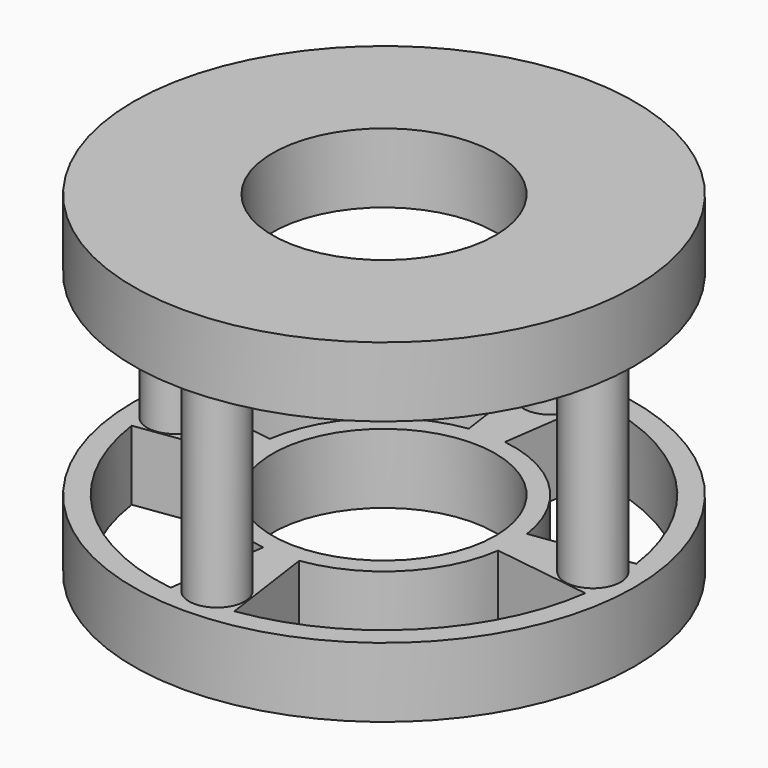
from build123d import *

# Parameters (mm, degrees)
SKETCH004_R           = 18
SKETCH004_R_2         = 8
PAD005_DEPTH          = 5
POCKET003_DEPTH       = 3
POLARPATTERN002_COUNT = 4
SKETCH005_R           = 2
PAD006_DEPTH          = 14
POLARPATTERN_COUNT    = 4
SKETCH006_R           = 18
SKETCH006_R_2         = 8
PAD007_DEPTH          = 5
POCKET001_DEPTH       = 5
POLARPATTERN001_COUNT = 4
SKETCH017_R           = 0.8
HOLE_DEPTH            = 9
HOLE_TIPS_R           = 0.8


with BuildPart() as part:
    # Sketch004 → Pad005 (new body)
    with BuildSketch(Plane.XY.offset(3)):
        Circle(SKETCH004_R)
        Circle(SKETCH004_R_2, mode=Mode.SUBTRACT)
    extrude(amount=-PAD005_DEPTH)

    # Sketch016 (on Face4 of Pad005) → Pocket003 (cut)
    with BuildSketch(Plane(origin=(0, 0, -2), x_dir=(1, 0, 0), z_dir=(0, 0, -1))):
        with BuildLine():
            ThreePointArc((-2.274320715, 16.0355366217), (-11.366542794, 11.537446614), (-15.9998121466, 2.5133604465))
            Line((-15.9998121466, 2.5133604465), (-9.3613070154, 1.4705384391))
            ThreePointArc((-1.3306790273, 9.382208997), (-6.6504341316, 6.7504280011), (-9.3613070154, 1.4705384391))
            Line((-2.274320715, 16.0355366217), (-1.3306790273, 9.382208997))
        make_face()
    pocket003 = extrude(amount=-POCKET003_DEPTH, mode=Mode.SUBTRACT)

    # PolarPattern002: Pocket003 ×4 about axis
    polarpattern002_axis = Axis((0, 0, -2), (0, 0, -1))
    for i in range(1, POLARPATTERN002_COUNT):
        add(pocket003.rotate(polarpattern002_axis, i * 360 / POLARPATTERN002_COUNT), mode=Mode.SUBTRACT)

    # Sketch005 (on Face3 of Pad005) → Pad006 (join)
    with BuildSketch(Plane.XY.offset(-2)):
        with Locations((0, 15)):
            Circle(SKETCH005_R)
    pad006 = extrude(amount=-PAD006_DEPTH)

    # PolarPattern: Pad006 ×4 about axis
    polarpattern_axis = Axis((0, 0, 0), (0, 0, 1))
    for i in range(1, POLARPATTERN_COUNT):
        add(pad006.rotate(polarpattern_axis, i * 360 / POLARPATTERN_COUNT))

    # Sketch006 → Pad007 (join)
    with BuildSketch(Plane.XY.offset(-16)):
        Circle(SKETCH006_R)
        Circle(SKETCH006_R_2, mode=Mode.SUBTRACT)
    extrude(amount=-PAD007_DEPTH)

    # Sketch011 (on Face3 of Pad007) → Pocket001 (cut)
    with BuildSketch(Plane(origin=(0, 0, -21), x_dir=(1, 0, 0), z_dir=(0, 0, -1))):
        with BuildLine():
            ThreePointArc((9.2353888952, 1.2979492641), (6.5945841544, 6.5945841544), (1.2979492641, 9.2353888952))
            Line((2.2896869549, 16.2919692324), (1.2979492641, 9.2353888952))
            ThreePointArc((16.2919692324, 2.2896869549), (11.6333771498, 11.6333771498), (2.2896869549, 16.2919692324))
            Line((16.2919692324, 2.2896869549), (9.2353888952, 1.2979492641))
        make_face()
    pocket001 = extrude(amount=-POCKET001_DEPTH, mode=Mode.SUBTRACT)

    # PolarPattern001: Pocket001 ×4 about axis
    polarpattern001_axis = Axis((0, 0, 0), (0, 0, 1))
    for i in range(1, POLARPATTERN001_COUNT):
        add(pocket001.rotate(polarpattern001_axis, i * 360 / POLARPATTERN001_COUNT), mode=Mode.SUBTRACT)

    # Sketch017 (on Face3 of PolarPattern001) → Hole (cut)
    with BuildSketch(Plane(origin=(0, 0, -21), x_dir=(1, 0, 0), z_dir=(0, 0, -1))):
        with Locations((0, 15)):
            Circle(SKETCH017_R)
        with Locations((0, -15)):
            Circle(SKETCH017_R)
        with Locations((-15, 0)):
            Circle(SKETCH017_R)
        with Locations((15, 0)):
            Circle(SKETCH017_R)
    extrude(amount=-HOLE_DEPTH, mode=Mode.SUBTRACT)

    # Hole tips → Hole tip 1 section 0
    with BuildSketch(Plane(origin=(0, 0, -12), x_dir=(1, 0, 0), z_dir=(0, 0, -1)), mode=Mode.PRIVATE) as hole_tip_1_s0:
        with Locations((0, 15)):
            Circle(HOLE_TIPS_R)
    loft([hole_tip_1_s0.sketch, Vertex(0, -15, -11.5193115048)], mode=Mode.SUBTRACT)

    # Hole tips → Hole tip 2 section 0
    with BuildSketch(Plane(origin=(0, 0, -12), x_dir=(1, 0, 0), z_dir=(0, 0, -1)), mode=Mode.PRIVATE) as hole_tip_2_s0:
        with Locations((0, -15)):
            Circle(HOLE_TIPS_R)
    loft([hole_tip_2_s0.sketch, Vertex(0, 15, -11.5193115048)], mode=Mode.SUBTRACT)

    # Hole tips → Hole tip 3 section 0
    with BuildSketch(Plane(origin=(0, 0, -12), x_dir=(1, 0, 0), z_dir=(0, 0, -1)), mode=Mode.PRIVATE) as hole_tip_3_s0:
        with Locations((-15, 0)):
            Circle(HOLE_TIPS_R)
    loft([hole_tip_3_s0.sketch, Vertex(-15, 0, -11.5193115048)], mode=Mode.SUBTRACT)

    # Hole tips → Hole tip 4 section 0
    with BuildSketch(Plane(origin=(0, 0, -12), x_dir=(1, 0, 0), z_dir=(0, 0, -1)), mode=Mode.PRIVATE) as hole_tip_4_s0:
        with Locations((15, 0)):
            Circle(HOLE_TIPS_R)
    loft([hole_tip_4_s0.sketch, Vertex(15, 0, -11.5193115048)], mode=Mode.SUBTRACT)


with BuildPart() as part_1:
    # Body002 placement: moved
    add(part.part.moved(Location((0, 0, -6))))


solid = part_1.part
